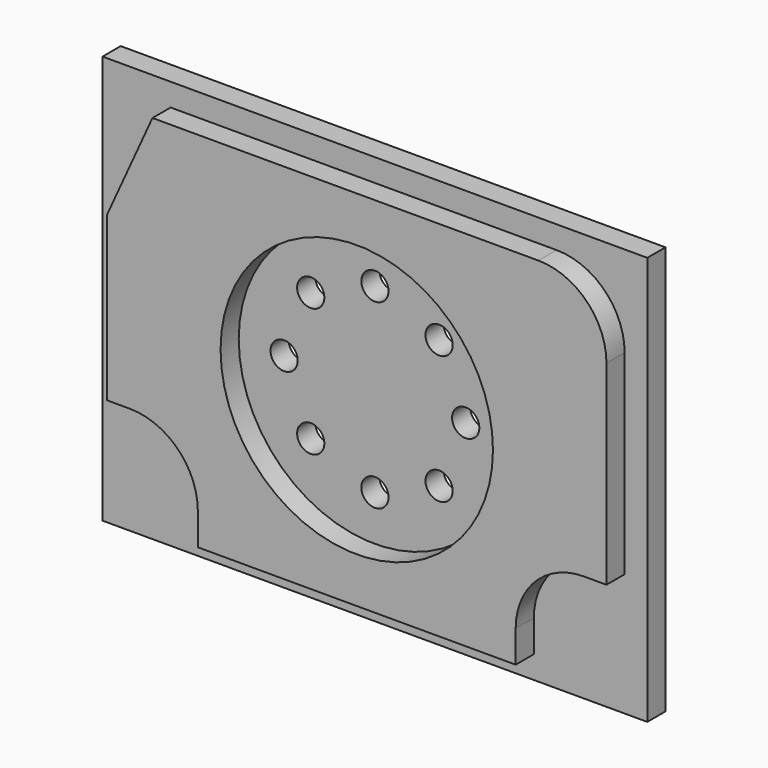
from build123d import *

# Parameters (mm, degrees)
F0_W     = 120
F0_H     = 90
F1_DEPTH = 5
F3_D     = 6
F5_DEPTH = 5
F6_R     = 30
F7_DEPTH = 5


with BuildPart() as f1:
    # F0 (on Front) → F1 (new body)
    with BuildSketch(Plane.XZ):
        with Locations((-60, 45)):
            Rectangle(F0_W, F0_H)
    extrude(amount=F1_DEPTH)

    # F3 (through all)
    with Locations(Plane.XZ.offset(5)):
        with Locations((-60, 65), (-74.14, 59.144271), (-80, 45), (-74.14, 30.855729), (-60, 25), (-45.86, 30.855729), (-40, 45), (-45.86, 59.144271)):
            Hole(F3_D / 2)

    # F4 (on face) → F5 (join)
    with BuildSketch(Plane.XZ.offset(5)):
        with BuildLine():
            Line((-95, 5), (-25, 5))
            Line((-25, 5), (-25, 12))
            ThreePointArc((-25, 12), (-20.606602, 22.606602), (-10, 27))
            Line((-10, 27), (-5, 27))
            Line((-5, 27), (-5, 70))
            ThreePointArc((-5, 70), (-9.393398, 80.606602), (-20, 85))
            Line((-20, 85), (-105, 85))
            Line((-105, 85), (-115, 63))
            Line((-115, 63), (-115, 27))
            Line((-115, 27), (-110, 27))
            ThreePointArc((-110, 27), (-99.393398, 22.606602), (-95, 12))
            Line((-95, 12), (-95, 5))
        make_face()
    extrude(amount=F5_DEPTH)

    # F6 (on face) → F7 (cut)
    with BuildSketch(Plane.XZ.offset(10)):
        with Locations((-60, 45)):
            Circle(F6_R)
    extrude(amount=-F7_DEPTH, mode=Mode.SUBTRACT)


solid = f1.part
